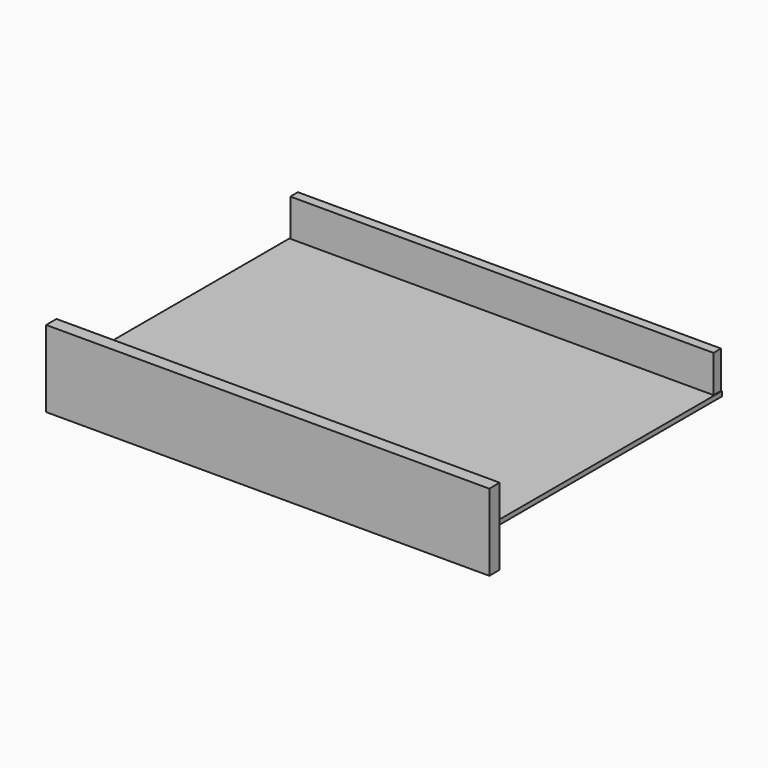
from build123d import *

# Parameters (mm, degrees)
F6_W      = 720
F6_H      = 16
F7_DEPTH  = 490
F8_W      = 38
F8_H      = 490.0000000001
F8_H_2    = 490
F8_R      = 2.5
F9_DEPTH  = 8
F5_W      = 717
F5_H      = 63
F10_DEPTH = 16
F11_R     = 2.5
F12_DEPTH = 12
F3_W      = 751
F3_H      = 130
F13_DEPTH = 22


with BuildPart() as f7:
    # F6 (on Front) → F7 (new body, through all)
    with BuildSketch(Plane.XZ):
        with Locations((0, -328.1)):
            Rectangle(F6_W, F6_H)
    extrude(amount=-F7_DEPTH)

    # F8 (on face) → F9 (cut)
    with BuildSketch(Plane(origin=(0, 0, -336.1), x_dir=(1, 0, 0), z_dir=(0, 0, -1))):
        with Locations((-341, -245.0000000001)):
            Rectangle(F8_W, F8_H)
        with Locations((341, -245)):
            Rectangle(F8_W, F8_H_2)
        with Locations((-311.5, -24)):
            Circle(F8_R)
        with Locations((-311.5, -152)):
            Circle(F8_R)
        with Locations((311.5, -152)):
            Circle(F8_R)
        with Locations((311.5, -24)):
            Circle(F8_R)
        with Locations((-262, -482)):
            Circle(F8_R)
        with Locations((-131, -482)):
            Circle(F8_R)
        with Locations((131, -482)):
            Circle(F8_R)
        with Locations((262, -482)):
            Circle(F8_R)
    extrude(amount=-F9_DEPTH, mode=Mode.SUBTRACT)


with BuildPart() as f10:
    # F5 (on offset) → F10 (new body)
    with BuildSketch(Plane.XZ.offset(-490)):
        with Locations((0, -288.6)):
            Rectangle(F5_W, F5_H)
    extrude(amount=F10_DEPTH)

    # F11 (on face) → F12 (cut)
    with BuildSketch(Plane.XZ.offset(-490)):
        with Locations((349.5, -311.1)):
            Circle(F11_R)
        with Locations((349.5, -279.1)):
            Circle(F11_R)
        with Locations((349.5, -247.1)):
            Circle(F11_R)
        with Locations((-349.5, -247.1)):
            Circle(F11_R)
        with Locations((-349.5, -279.1)):
            Circle(F11_R)
        with Locations((-349.5, -311.1)):
            Circle(F11_R)
    extrude(amount=F12_DEPTH, mode=Mode.SUBTRACT)


with BuildPart() as f13:
    # F3 (on face) → F13 (new body)
    with BuildSketch(Plane.XZ):
        with Locations((0, -317.5)):
            Rectangle(F3_W, F3_H)
    extrude(amount=F13_DEPTH)


solid = Compound([f7.part, f10.part, f13.part])
